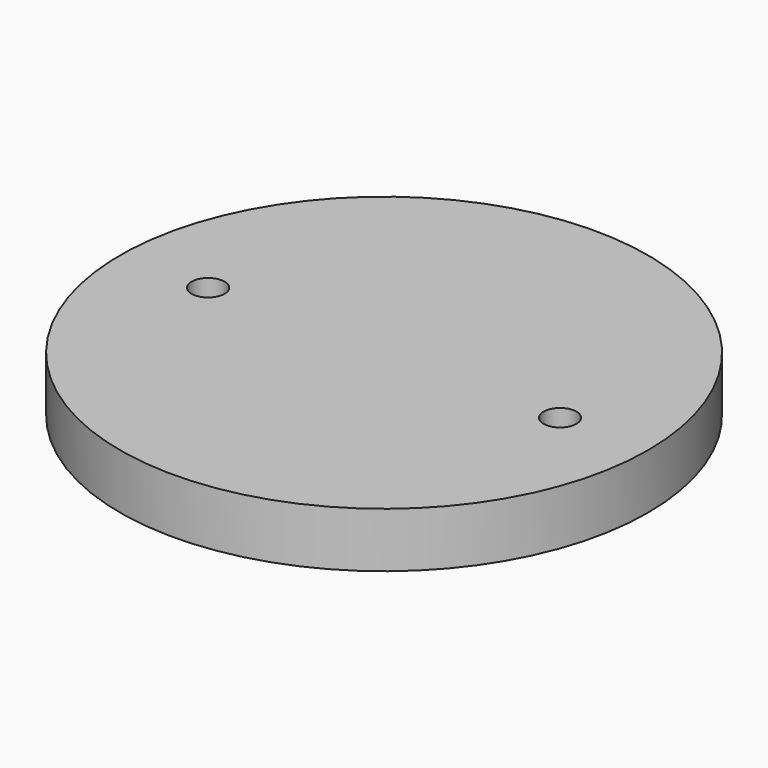
from build123d import *

# Parameters (mm, degrees)
SKETCH_R   = 48
SKETCH_R_2 = 3
PAD_DEPTH  = 10


with BuildPart() as part:
    # Sketch (on XY_Plane of Origin) → Pad (new body)
    with BuildSketch(Plane.XY):
        Circle(SKETCH_R)
        with Locations((-32, 0)):
            Circle(SKETCH_R_2, mode=Mode.SUBTRACT)
        with Locations((32, 0)):
            Circle(SKETCH_R_2, mode=Mode.SUBTRACT)
    extrude(amount=PAD_DEPTH)


solid = part.part
